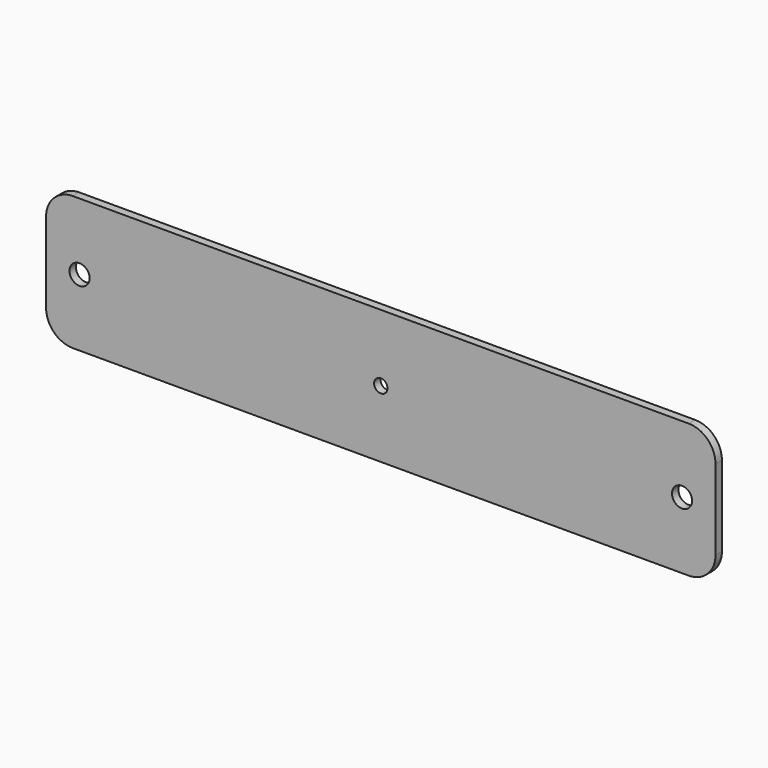
from build123d import *

# Parameters (mm, degrees)
F0_R     = 7.5
F0_R_2   = 5
F1_DEPTH = 6


with BuildPart() as f1:
    # F0 (on Front) → F1 (new body)
    with BuildSketch(Plane.XZ):
        with BuildLine():
            ThreePointArc((-230, 50), (-244.142136, 44.142136), (-250, 30))
            Line((-250, 30), (-250, -30))
            ThreePointArc((-250, -30), (-244.142136, -44.142136), (-230, -50))
            Line((-230, -50), (230, -50))
            ThreePointArc((230, -50), (244.142136, -44.142136), (250, -30))
            Line((250, -30), (250, 30))
            ThreePointArc((250, 30), (244.142136, 44.142136), (230, 50))
            Line((230, 50), (-230, 50))
        make_face()
        with Locations((-225, 0)):
            Circle(F0_R, mode=Mode.SUBTRACT)
        Circle(F0_R_2, mode=Mode.SUBTRACT)
        with Locations((225, 0)):
            Circle(F0_R, mode=Mode.SUBTRACT)
    extrude(amount=F1_DEPTH)


solid = f1.part
